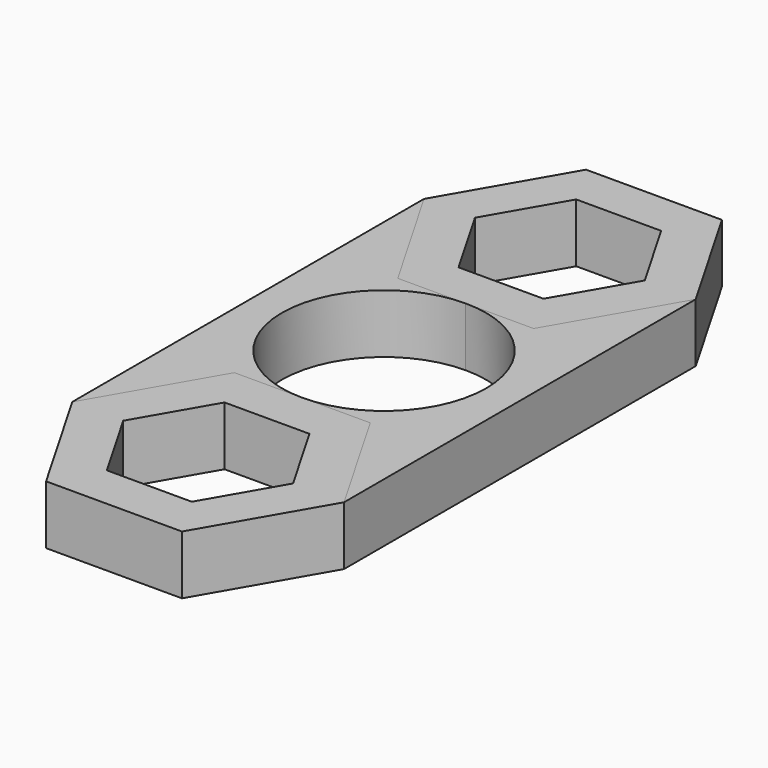
from build123d import *

# Parameters (mm, degrees)
F2_DEPTH = 6.35


with BuildPart() as f2:
    # F0 (on Top) → F2 (new body)
    with BuildSketch(Plane.XY):
        Polygon((-7.3323484187, 11.0236), (0, 11.0236), (7.3323484187, 11.0236), (14.6646968374, 23.7236), (7.3323484187, 36.4236), (-7.3323484187, 36.4236), (-14.6646968374, 23.7236), align=None)
        Polygon((9.1654355234, 23.7236), (4.5827177617, 15.7861), (-4.5827177617, 15.7861), (-9.1654355234, 23.7236), (-4.5827177617, 31.6611), (4.5827177617, 31.6611), align=None, mode=Mode.SUBTRACT)
    extrude(amount=F2_DEPTH)


with BuildPart() as f2b:
    # F0 (on Top) → F2, piece 2 (new body)
    with BuildSketch(Plane.XY):
        Polygon((7.3323484187, -11.0236), (0, -11.0236), (-7.3323484187, -11.0236), (-14.6646968374, -23.7236), (-7.3323484187, -36.4236), (7.3323484187, -36.4236), (14.6646968374, -23.7236), align=None)
        Polygon((4.5827177617, -15.7861), (9.1654355234, -23.7236), (4.5827177617, -31.6611), (-4.5827177617, -31.6611), (-9.1654355234, -23.7236), (-4.5827177617, -15.7861), align=None, mode=Mode.SUBTRACT)
    extrude(amount=F2_DEPTH)


with BuildPart() as f2c:
    # F1 (on Top) → F2, piece 3 (new body)
    with BuildSketch(Plane.XY):
        with BuildLine():
            ThreePointArc((0, -11.0236), (-11.0236, 5.2e-09), (1.03e-08, 11.0236))
            Line((1.03e-08, 11.0236), (-7.3323484187, 11.0236))
            Line((-7.3323484187, 11.0236), (-10.9985224446, 17.3735996823))
            Line((-10.9985224446, 17.3735996823), (-14.6646968374, 23.7236))
            Line((-14.6646968374, 23.7236), (-14.6646968374, -23.7236))
            Line((-14.6646968374, -23.7236), (-7.3323484187, -11.0236))
            Line((-7.3323484187, -11.0236), (0, -11.0236))
        make_face()
    extrude(amount=F2_DEPTH)


with BuildPart() as f2d:
    # F1 (on Top) → F2, piece 4 (new body)
    with BuildSketch(Plane.XY):
        with BuildLine():
            Line((14.6646968374, 23.7236), (10.9985223809, 17.373599572))
            Line((10.9985223809, 17.373599572), (7.3323484187, 11.0236))
            Line((7.3323484187, 11.0236), (1.03e-08, 11.0236))
            ThreePointArc((1.03e-08, 11.0236), (7.7948623167, 7.7948623094), (11.0236, 0))
            ThreePointArc((11.0236, 0), (7.7948623131, -7.7948623131), (0, -11.0236))
            Line((0, -11.0236), (7.3323484187, -11.0236))
            Line((7.3323484187, -11.0236), (14.6646968374, -23.7236))
            Line((14.6646968374, -23.7236), (14.6646968374, 23.7236))
        make_face()
    extrude(amount=F2_DEPTH)


solid = Compound([f2.part, f2b.part, f2c.part, f2d.part])
